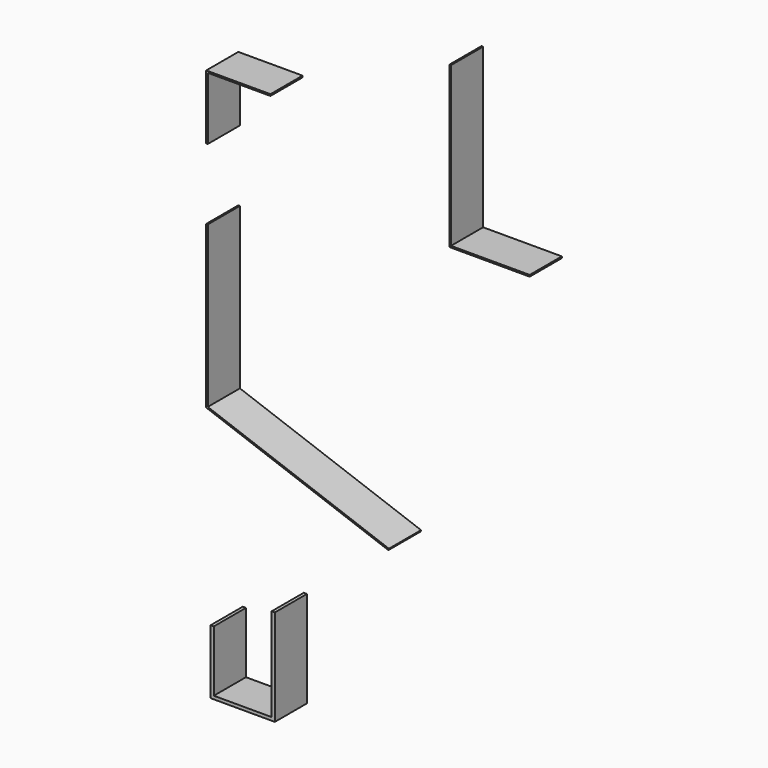
from build123d import *

# Parameters (mm, degrees)
F1_DEPTH = 25
F3_DEPTH = 25


with BuildPart() as f1:
    # F0 (on Front) → F1 (new body)
    with BuildSketch(Plane.XZ):
        Polygon((-30.787562, 25.619941), (-30.787562, 125.619941), (-31.787562, 125.619941), (-31.787562, 24.919733), (81.633533, -16.362169), (81.975553, -15.422477), align=None)
        Polygon((-27.041728, -93.486018), (-29.041728, -93.486018), (-29.041728, -133.486018), (10.958272, -133.486018), (10.958272, -73.486018), (8.958272, -73.486018), (8.958272, -131.486018), (-27.041728, -131.486018), align=None)
        Polygon((-31.787562, 209.722423), (-31.787562, 169.722423), (-30.787562, 169.722423), (-30.787562, 208.722423), (8.212438, 208.722423), (8.212438, 209.722423), align=None)
    extrude(amount=F1_DEPTH)


with BuildPart() as f3:
    # F2 (on Front) → F3 (new body)
    with BuildSketch(Plane.XZ):
        Polygon((120.62264, 262.145734), (119.62264, 262.145734), (119.62264, 162.145734), (169.62264, 162.145734), (169.62264, 163.145734), (120.62264, 163.145734), align=None)
    extrude(amount=F3_DEPTH)


solid = Compound([f1.part, f3.part])
